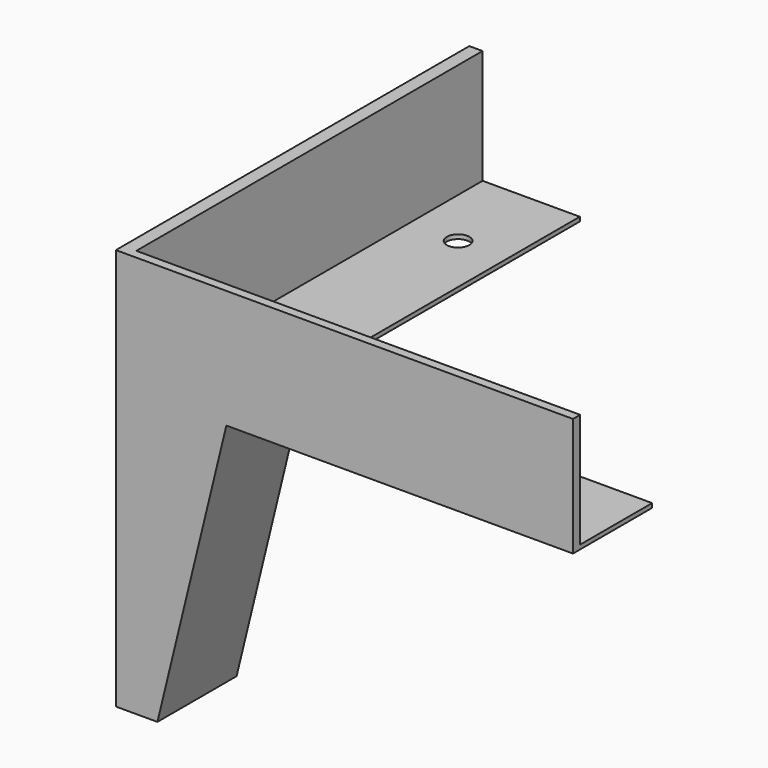
from build123d import *

# Parameters (mm, degrees)
F1_DEPTH  = 2
F2_W      = 2
F2_H      = 76.6198585529
F3_DEPTH  = 20
F4_DEPTH  = 19.9898
F5_W      = 22.560308024
F5_H      = 13.6446189195
F5_W_2    = 2
F6_DEPTH  = 76.2
F7_DEPTH  = 25.4
F9_DEPTH  = 12.7
F10_DEPTH = 12.7
F12_D     = 5


with BuildPart() as f1:
    # F0 (on Front) → F1 (new body)
    with BuildSketch(Plane.XZ):
        Polygon((76.2, 0), (0, 0), (0, -76.6198585529), (9.2363302823, -76.6198585529), (24.560308024, -13.6446189195), (76.2, -13.6446189195), align=None)
    extrude(amount=F1_DEPTH)

    # F2 (on face) → F3 (join)
    with BuildSketch(Plane(origin=(0, 0, 0), x_dir=(-1, 0, 0), z_dir=(0, 1, 0))):
        with Locations((-1, -38.3099292764)):
            Rectangle(F2_W, F2_H)
    extrude(amount=F3_DEPTH)

    # F4 (add): a face of the model
    f4_faces = [f1.faces().sort_by_distance(p)[0] for p in [
        (15.8619650851, 0, -44.8800592008),
    ]]
    extrude(f4_faces, amount=F4_DEPTH)

    # F5 (on face) → F6 (join)
    with BuildSketch(Plane(origin=(0, 19.9898, 0), x_dir=(-1, 0, 0), z_dir=(0, 1, 0))):
        with Locations((-13.280154012, -6.8223094598)):
            Rectangle(F5_W, F5_H)
        with Locations((-1, -6.8223094598)):
            Rectangle(F5_W_2, F5_H)
    extrude(amount=F6_DEPTH)

    # F7 (add): a face of the model
    f7_faces = [f1.faces().sort_by_distance(p)[0] for p in [
        (76.2, 8.9949, -6.8223094598),
    ]]
    extrude(f7_faces, amount=F7_DEPTH)

    # F8 (on face) → F9 (cut)
    with BuildSketch(Plane.XY):
        Polygon((2.9516927898, 0), (101.6, 0), (101.6, 19.9898), (24.560308024, 19.9898), (24.560308024, 96.1898), (2.9516927898, 96.1898), align=None)
    extrude(amount=-F9_DEPTH, mode=Mode.SUBTRACT)

    # F10 (add): a face of the model
    f10_faces = [f1.faces().sort_by_distance(p)[0] for p in [
        (1.412933007, 47.0949, 0),
    ]]
    extrude(f10_faces, amount=F10_DEPTH)

    # F12 (through all)
    with Locations(Plane.XY.offset(-12.7)):
        with Locations((81.9915756583, 9.9949), (52.2758463949, 9.9949), (13.7560004069, 32.9941399395), (13.7560004069, 75.88840276)):
            Hole(F12_D / 2)


solid = f1.part
